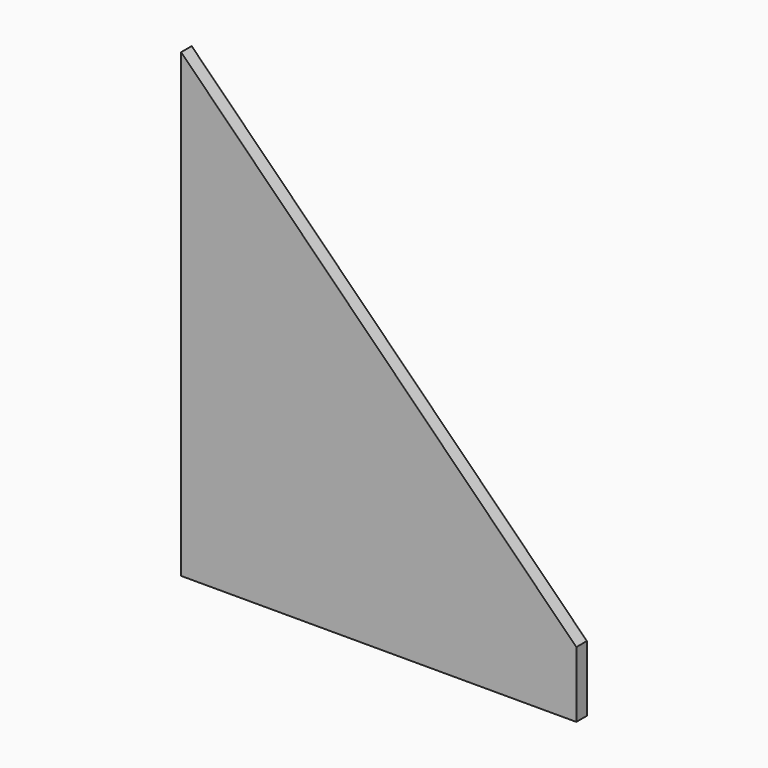
from build123d import *

# Parameters (mm, degrees)
F0_W     = 152.4
F0_H     = 152.4
F1_DEPTH = 5.08
F3_DEPTH = 5.08
F4_DEPTH = 25.4


with BuildPart() as f1:
    # F0 (on Front) → F1 (new body)
    with BuildSketch(Plane.XZ):
        with Locations((-93.7180127949, 26.5866962026)):
            Rectangle(F0_W, F0_H)
    extrude(amount=F1_DEPTH)

    # F2 (on face) → F3 (cut)
    with BuildSketch(Plane.XZ.offset(5.08)):
        Polygon((-17.5180127949, 102.7866962026), (-169.9180127949, 102.7866962026), (-17.5180127949, -49.6133037974), align=None)
    extrude(amount=-F3_DEPTH, mode=Mode.SUBTRACT)

    # F4 (add): a face of the model
    f4_faces = [f1.faces().sort_by_distance(p)[0] for p in [
        (-93.7180127949, -2.54, -49.6133037974),
    ]]
    extrude(f4_faces, amount=F4_DEPTH)


solid = f1.part
